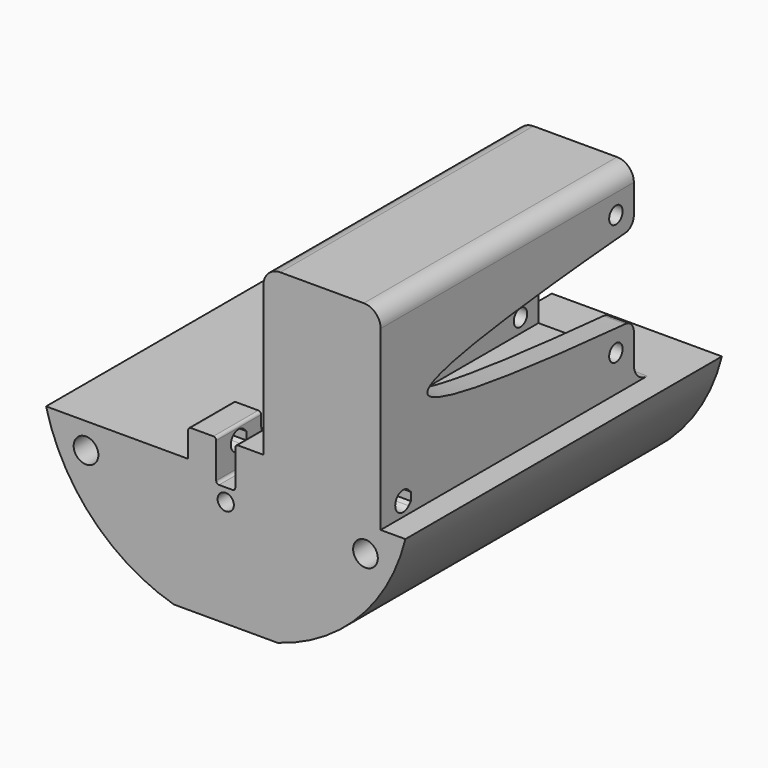
from build123d import *

# Parameters (mm, degrees)
SKETCH_R        = 2.2
SKETCH_R_2      = 1.45
PAD_DEPTH       = 33
SKETCH037_R     = 2.2
SKETCH037_R_2   = 1.45
PAD016_DEPTH    = 4.5
SKETCH039_W     = 13.4
SKETCH039_H     = 10
PAD017_DEPTH    = 5
SKETCH045_W     = 20.9
SKETCH045_H     = 56.4
PAD018_DEPTH    = 34.6
POCKET022_DEPTH = 38.716621
SKETCH046_W     = 13.1
SKETCH046_H     = 26.8
POCKET023_DEPTH = 47.5
SKETCH047_R     = 1.5
POCKET024_DEPTH = 20.9
SKETCH041_W     = 3.4
SKETCH041_H     = 70.5
POCKET025_DEPTH = 7.3
FILLET006_R     = 0.5
FILLET007_R     = 3
FILLET008_R     = 3
FILLET009_R     = 2
FILLET010_R     = 3
FILLET011_R     = 0.5


with BuildPart() as part:
    # Sketch → Pad (new body, symmetric)
    with BuildSketch(Plane.XZ):
        with BuildLine():
            Line((-9.25, -31.677082), (9.25, -31.677082))
            ThreePointArc((9.25, -31.677082), (23.787894, -22.872168), (32.015621, -8))
            Line((-32.015621, -8), (32.015621, -8))
            ThreePointArc((-32.015621, -8), (-23.787894, -22.872168), (-9.25, -31.677082))
        make_face()
        with Locations((24.9, -12.6)):
            Circle(SKETCH_R, mode=Mode.SUBTRACT)
        with Locations((-24.9, -12.6)):
            Circle(SKETCH_R, mode=Mode.SUBTRACT)
        with Locations((0, -12.6)):
            Circle(SKETCH_R_2, mode=Mode.SUBTRACT)
        with BuildLine():
            ThreePointArc((0, -18.243174), (-6.771568, -11.057878), (-16.248592, -13.827105))
            ThreePointArc((-16.248592, -13.827105), (-21.564175, -13.876493), (-18.494342, -18.216307))
            ThreePointArc((-18.494342, -18.216307), (-11.197344, -29.424262), (0, -22.11099))
            ThreePointArc((0, -22.11099), (18.7, -20.177082), (0, -18.243174))
        make_face(mode=Mode.SUBTRACT)
    extrude(amount=PAD_DEPTH, both=True)

    # Sketch037 → Pad016 (join)
    with BuildSketch(Plane.XZ.offset(33)):
        with BuildLine():
            ThreePointArc((-32.015621, -8), (-23.787894, -22.872168), (-9.25, -31.677082))
            Line((9.25, -31.677082), (-9.25, -31.677082))
            ThreePointArc((9.25, -31.677082), (23.787894, -22.872168), (32.015621, -8))
            Line((-32.015621, -8), (32.015621, -8))
        make_face()
        with Locations((-24.9, -12.6)):
            Circle(SKETCH037_R, mode=Mode.SUBTRACT)
        with Locations((0, -12.6)):
            Circle(SKETCH037_R_2, mode=Mode.SUBTRACT)
        with Locations((24.9, -12.6)):
            Circle(SKETCH037_R, mode=Mode.SUBTRACT)
    extrude(amount=PAD016_DEPTH)

    # Sketch039 (on Face2 of Pad016) → Pad017 (join)
    with BuildSketch(Plane(origin=(0, 0, -8), x_dir=(-1, 0, 0), z_dir=(0, 0, 1))):
        with Locations((0, 32.5)):
            Rectangle(SKETCH039_W, SKETCH039_H)
    extrude(amount=PAD017_DEPTH)

    # Sketch045 (on Face2 of Pad017) → Pad018 (join)
    with BuildSketch(Plane(origin=(0, 0, -8), x_dir=(-1, 0, 0), z_dir=(0, 0, 1))):
        with Locations((-17.15, 9.3)):
            Rectangle(SKETCH045_W, SKETCH045_H)
    extrude(amount=PAD018_DEPTH)

    # Sketch040 (on Face12 of Pad018) → Pocket022 (cut, through all)
    with BuildSketch(Plane(origin=(-6.7, 0, -11), x_dir=(0, 0, -1), z_dir=(-1, 0, 0))):
        with BuildLine():
            Line((-6.224875, 30.75), (-4.775126, 30.75))
            Line((-4.775126, 30.75), (-4.262563, 31.262563))
            ThreePointArc((-4.262563, 31.262563), (-5.5, 34.25), (-6.737437, 31.262563))
            Line((-6.224875, 30.75), (-6.737437, 31.262563))
        make_face()
    extrude(amount=-POCKET022_DEPTH, mode=Mode.SUBTRACT)

    # Sketch046 (on Face9 of Pocket022) → Pocket023 (cut)
    with BuildSketch(Plane(origin=(0, 18.9, 0), x_dir=(1, 0, 0), z_dir=(0, 1, 0))):
        with Locations((17.15, -9.4)):
            Rectangle(SKETCH046_W, SKETCH046_H)
    extrude(amount=-POCKET023_DEPTH, mode=Mode.SUBTRACT)

    # Sketch047 (on Face8 of Pocket023) → Pocket024 (cut)
    with BuildSketch(Plane(origin=(27.6, 0, 0), x_dir=(0, 0, 1), z_dir=(1, 0, 0))):
        with BuildLine():
            add(Edge.make_bspline(
                [(2, -18.9), (9.3, 73.1), (16.6, -18.9)],
                knots=[-7.3, -7.3, -7.3, 7.3, 7.3, 7.3], degree=2))
            Line((16.6, -18.9), (2, -18.9))
        make_face()
        with Locations((-1.5, -14.9)):
            Circle(SKETCH047_R)
        with Locations((20.1, -14.9)):
            Circle(SKETCH047_R)
    extrude(amount=-POCKET024_DEPTH, mode=Mode.SUBTRACT)

    # Sketch041 (on Face38 of Pocket024) → Pocket025 (cut)
    with BuildSketch(Plane(origin=(0, 0, -3), x_dir=(-1, 0, 0), z_dir=(0, 0, 1))):
        with Locations((0, 2.25)):
            Rectangle(SKETCH041_W, SKETCH041_H)
    extrude(amount=-POCKET025_DEPTH, mode=Mode.SUBTRACT)

    # Fillet006
    fillet006_edges = [part.edges().sort_by_distance(p)[0] for p in [
        (-6.7, -32.5, -3),
        (1.7, -32.5, -3),
        (-1.7, -32.5, -3),
    ]]
    fillet(fillet006_edges, radius=FILLET006_R)

    # Fillet007
    fillet007_edges = [part.edges().sort_by_distance(p)[0] for p in [
        (-4.2, -27.5, -8),
        (4.2, -27.5, -8),
    ]]
    fillet(fillet007_edges, radius=FILLET007_R)

    # Fillet008
    fillet008_edges = [part.edges().sort_by_distance(p)[0] for p in [
        (27.6, -9.3, 26.6),
        (6.7, -9.3, 26.6),
    ]]
    fillet(fillet008_edges, radius=FILLET008_R)

    # Fillet009
    fillet009_edges = [part.edges().sort_by_distance(p)[0] for p in [
        (8.65, 18.9, 2),
        (25.65, 18.9, 2),
        (25.65, 18.9, 16.6),
        (8.65, 18.9, 16.6),
    ]]
    fillet(fillet009_edges, radius=FILLET009_R)

    # Fillet010
    fillet010_edges = [part.edges().sort_by_distance(p)[0] for p in [
        (17.15, 18.9, -8),
    ]]
    fillet(fillet010_edges, radius=FILLET010_R)

    # Fillet011
    fillet011_edges = [part.edges().sort_by_distance(p)[0] for p in [
        (1.7, -2.25, -10.3),
        (-1.7, -2.25, -10.3),
    ]]
    fillet(fillet011_edges, radius=FILLET011_R)


solid = part.part
